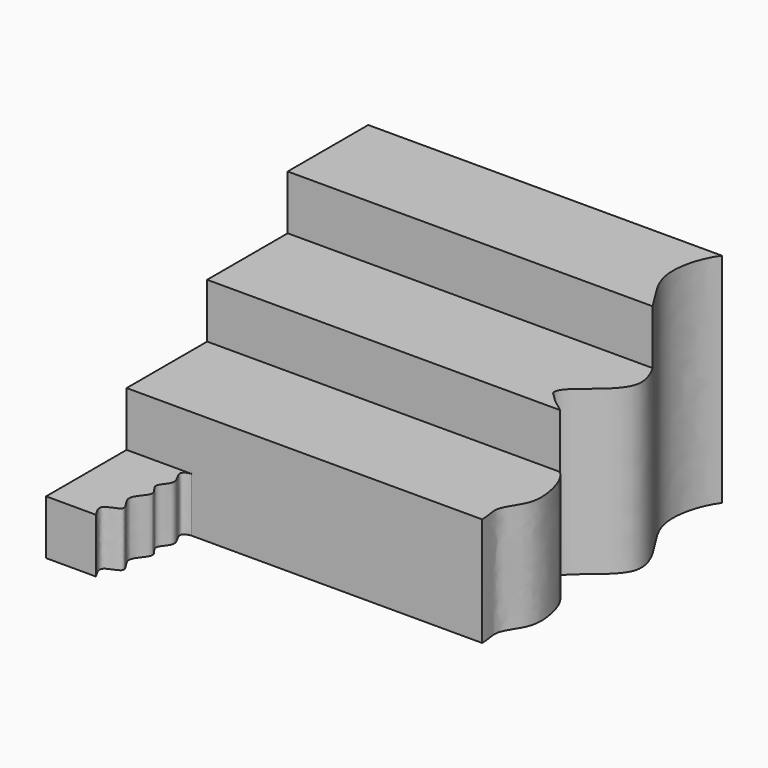
from build123d import *

# Parameters (mm, degrees)
F0_W     = 370
F0_H     = 200
F1_DEPTH = 250
F3_DEPTH = 1400
F5_DEPTH = 200.001
F7_DEPTH = 800.001


with BuildPart() as f1:
    # F0 (on Right) → F1 (new body)
    with BuildSketch(Plane.YZ):
        with Locations((-185, 100)):
            Rectangle(F0_W, F0_H)
    extrude(amount=F1_DEPTH)

    # F2 (on Right) → F3 (join)
    with BuildSketch(Plane.YZ):
        Polygon((0, 400), (0, 0), (1110, 0), (1110, 800), (740, 800), (740, 600), (370, 600), (370, 400), align=None)
    extrude(amount=F3_DEPTH)

    # F4 (on face) → F5 (cut, through all)
    with BuildSketch(Plane.XY.offset(200)):
        with BuildLine():
            Line((250, -370), (250, 0))
            Line((250, 0), (239.0966257007, 0))
            add(Edge.make_bspline(
                [(239.0966257007, 0), (224.9281745367, -1.3877650412), (193.5675752206, -17.6220787936), (254.1312191274, -72.7899930375), (181.8440227877, -121.7633073225), (253.330394472, -166.0449779372), (161.8849726525, -227.4234181148), (250.6643454579, -296.9094215229), (148.4768404974, -311.3575065291), (168.233976576, -347.2984312104), (183.3697259426, -370)],
                knots=[0.0108773659, 0.0108773659, 0.0108773659, 0.0108773659, 0.0536118354, 0.115118344, 0.1769195174, 0.2337683064, 0.3036067901, 0.3691498749, 0.431042265, 0.4908050033, 0.4908050033, 0.4908050033, 0.4908050033], degree=3))
            Line((183.3697259426, -370), (250, -370))
        make_face()
    extrude(amount=-F5_DEPTH, mode=Mode.SUBTRACT)

    # F6 (on Top) → F7 (cut, through all)
    with BuildSketch(Plane.XY):
        with BuildLine():
            add(Edge.make_bspline(
                [(1355.0444841385, 1158.7491035461), (1284.2233729879, 1122.7564913323), (1215.9844306573, 931.7905753878), (1307.560248118, 794.4153741816), (1421.9799618969, 617.4973979427), (1238.7040991782, 504.6944569107), (1204.0761922351, 445.4083884275), (1230.8571910461, 427.6292215241), (1250.1662751719, 401.2135430471), (1317.493744612, 364.130041832), (1352.4070358264, 266.0252666363), (1359.3019982753, 162.3382206665), (1284.7846468273, 81.5299903552), (1319.6271754815, 6.0368781426), (1271.4958776342, -180.3022766639), (1629.7218201893, -24.4762249566), (1778.1125247876, 1073.7816100627), (1433.6257724113, 1198.6855827982), (1355.0444841385, 1158.7491035461)],
                knots=[0, 0, 0, 0, 0.0790901007, 0.1455021695, 0.2118547084, 0.2811889193, 0.3192478056, 0.3439109846, 0.3728893055, 0.4161952003, 0.4677664575, 0.5191462279, 0.5686349976, 0.6146286579, 0.6709275311, 0.7482993654, 0.912243653, 1, 1, 1, 1], degree=3))
        make_face()
    extrude(amount=F7_DEPTH, mode=Mode.SUBTRACT)


solid = f1.part
